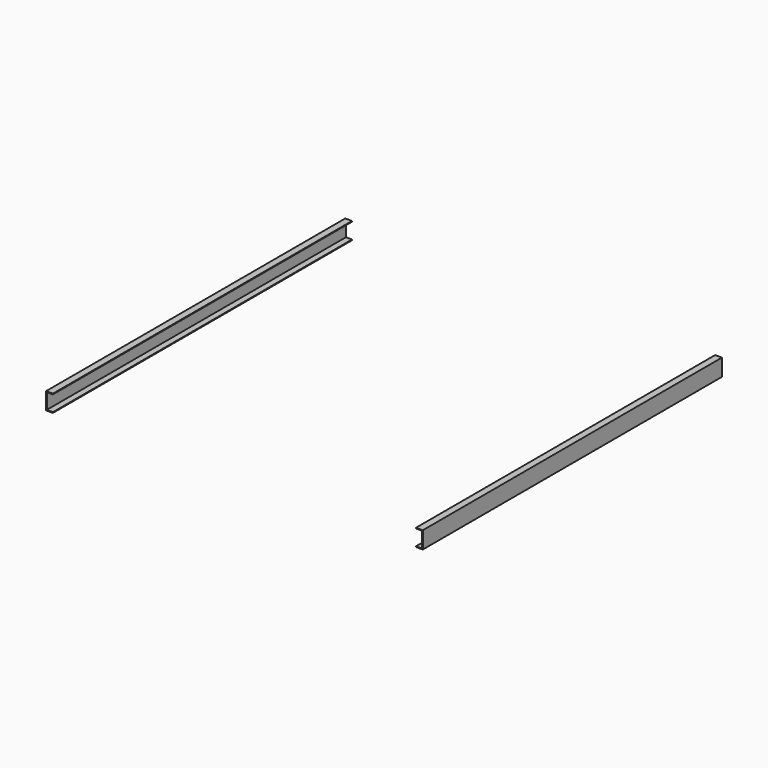
from build123d import *

# Parameters (mm, degrees)
F1_DEPTH = 550


with BuildPart() as f1:
    # F0 (on Front) → F1 (new body)
    with BuildSketch(Plane.XZ):
        Polygon((-267, 29.834287), (-277, 29.834287), (-277, 4.834287), (-267, 4.834287), (-267, 5.834287), (-276, 5.834287), (-276, 28.834287), (-267, 28.834287), align=None)
    extrude(amount=-F1_DEPTH)


with BuildPart() as f2_1:
    # F2: instance of F1
    add(f1.part.mirror(Plane.YZ))


solid = Compound([f1.part, f2_1.part])
